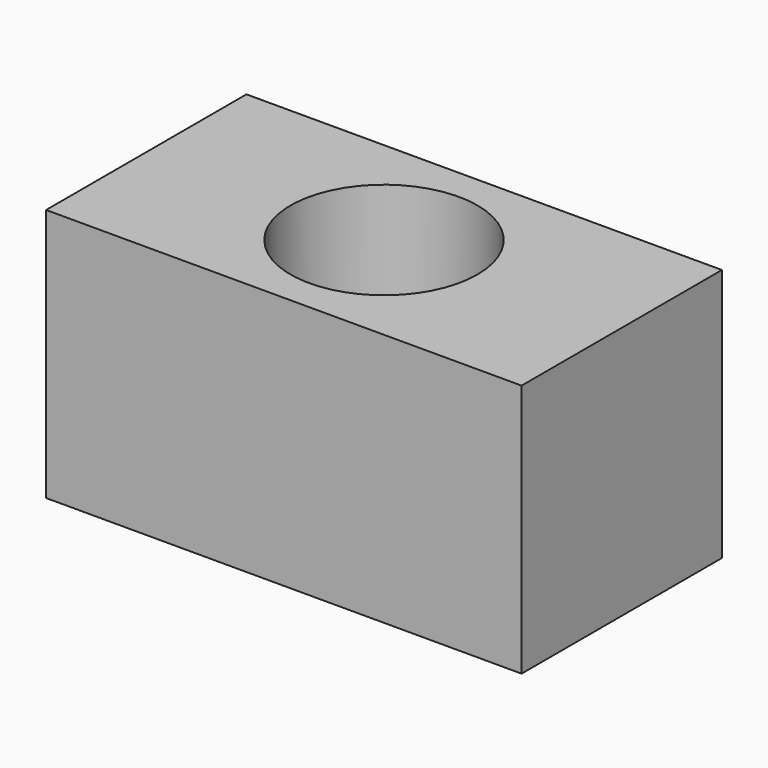
from build123d import *

# Parameters (mm, degrees)
F0_W     = 15
F0_H     = 7.9
F0_R     = 2.95
F1_DEPTH = 8
F0_R_2   = 0.75
F2_DEPTH = 1


with BuildPart() as f1:
    # F0 (on Top) → F1 (new body)
    with BuildSketch(Plane.XY):
        with Locations((7.5, 3.95)):
            Rectangle(F0_W, F0_H)
        with Locations((7.5, 3.95)):
            Circle(F0_R, mode=Mode.SUBTRACT)
    extrude(amount=F1_DEPTH)

    # F0 (on Top) → F2 (join)
    with BuildSketch(Plane.XY):
        with Locations((7.5, 3.95)):
            Circle(F0_R)
        with Locations((7.5, 3.95)):
            Circle(F0_R_2, mode=Mode.SUBTRACT)
    extrude(amount=F2_DEPTH)


solid = f1.part
